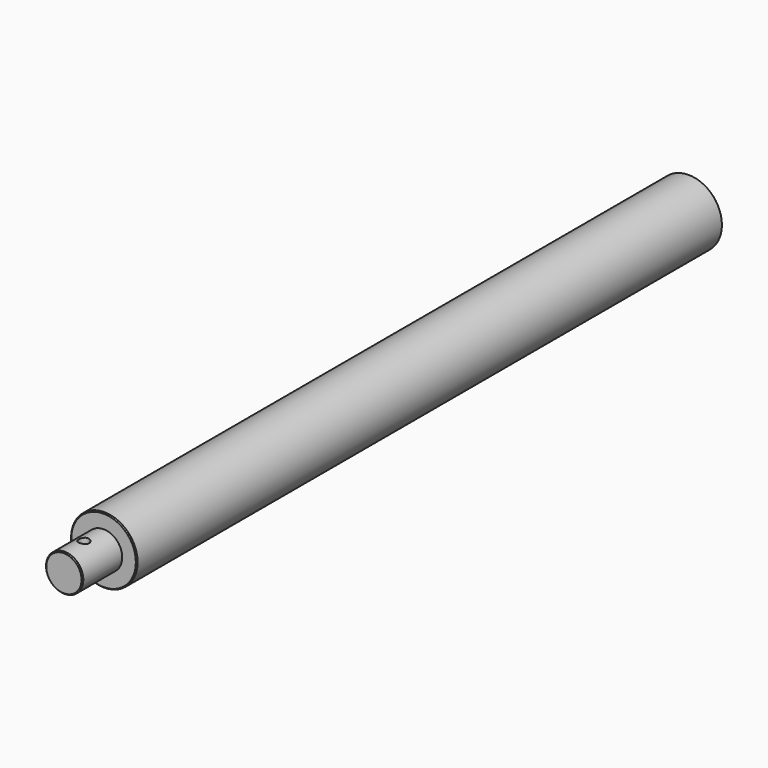
from build123d import *

# Parameters (mm, degrees)
F0_R     = 25.4
F1_DEPTH = 558.8
F2_R     = 14.224
F3_DEPTH = 37.846
F4_SIZE  = 0.762
F6_R     = 3.96875
F7_DEPTH = 6.35


with BuildPart() as f1:
    # F0 (on Front) → F1 (new body)
    with BuildSketch(Plane.XZ):
        Circle(F0_R)
    extrude(amount=F1_DEPTH)

    # F2 (on face) → F3 (join)
    with BuildSketch(Plane.XZ.offset(558.8)):
        Circle(F2_R)
    extrude(amount=F3_DEPTH)

    # F4
    f4_edges = [f1.edges().sort_by_distance(p)[0] for p in [
        (-14.224, -596.646, 0),
        (-25.4, -558.8, 0),
        (-25.4, 0, 0),
    ]]
    chamfer(f4_edges, length=F4_SIZE)

    # F6 (on offset) → F7 (cut)
    with BuildSketch(Plane.XY.offset(14.224)):
        with Locations((0, -577.596)):
            Circle(F6_R)
    extrude(amount=-F7_DEPTH, mode=Mode.SUBTRACT)


solid = f1.part
